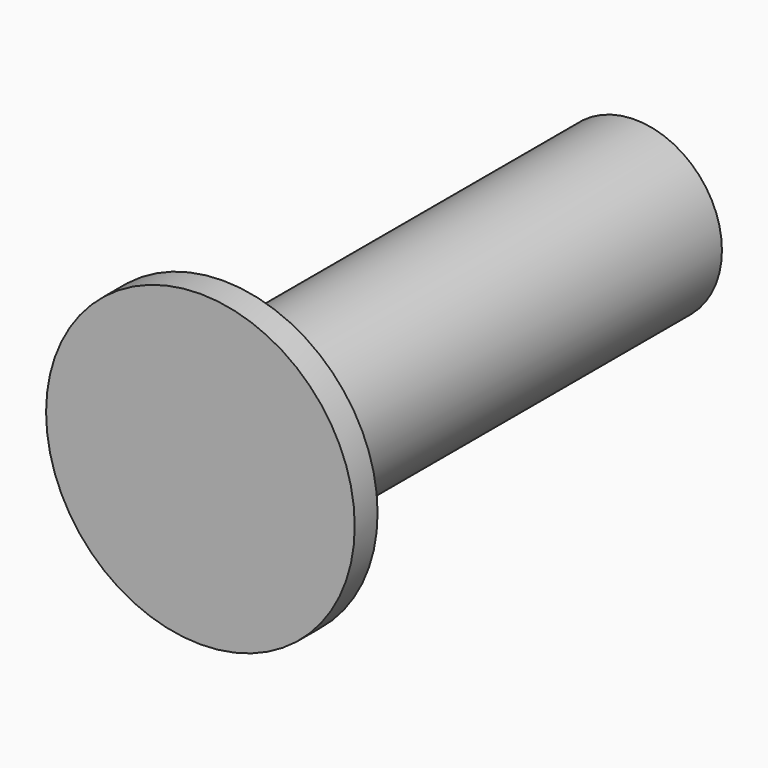
from build123d import *

# Parameters (mm, degrees)
F0_R     = 76
F1_DEPTH = 450.85
F2_SIZE  = 5
F3_R     = 135.146802
F4_DEPTH = 25


with BuildPart() as f1:
    # F0 (on Front) → F1 (new body)
    with BuildSketch(Plane.XZ):
        Circle(F0_R)
    extrude(amount=-F1_DEPTH)

    # F2
    f2_edges = [f1.edges().sort_by_distance(p)[0] for p in [
        (-76, 0, 0),
    ]]
    chamfer(f2_edges, length=F2_SIZE)

    # F3 (on Front) → F4 (join)
    with BuildSketch(Plane.XZ):
        Circle(F3_R)
    extrude(amount=F4_DEPTH)


solid = f1.part
